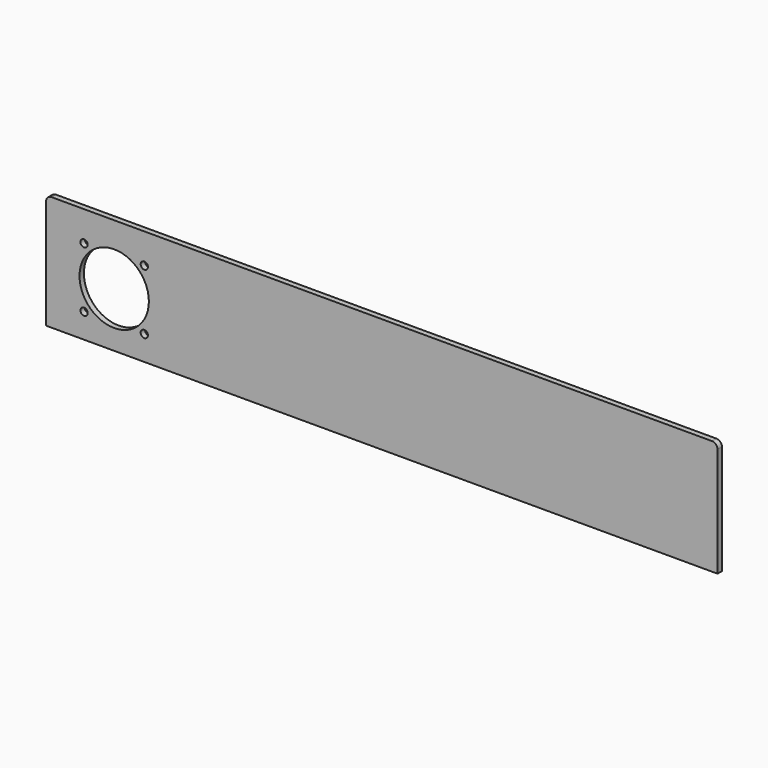
from build123d import *

# Parameters (mm, degrees)
F0_R     = 2
F0_R_2   = 19
F1_DEPTH = 3


with BuildPart() as f1:
    # F0 (on Front) → F1 (new body)
    with BuildSketch(Plane.XZ):
        with BuildLine():
            Line((176.212173, -51.451489), (-185.787827, -51.451489))
            ThreePointArc((-185.787827, -51.451489), (-187.909148, -52.330169), (-188.787827, -54.451489))
            Line((-188.787827, -54.451489), (-188.787827, -114.451489))
            Line((-188.787827, -114.451489), (179.212173, -114.451489))
            Line((179.212173, -114.451489), (179.212173, -54.451489))
            ThreePointArc((179.212173, -54.451489), (178.333493, -52.330169), (176.212173, -51.451489))
        make_face()
        with Locations((-167.960797, -100.951489)):
            Circle(F0_R, mode=Mode.SUBTRACT)
        with Locations((-134.960797, -100.951489)):
            Circle(F0_R, mode=Mode.SUBTRACT)
        with Locations((-151.460797, -84.451489)):
            Circle(F0_R_2, mode=Mode.SUBTRACT)
        with Locations((-167.960797, -67.951489)):
            Circle(F0_R, mode=Mode.SUBTRACT)
        with Locations((-134.960797, -67.951489)):
            Circle(F0_R, mode=Mode.SUBTRACT)
    extrude(amount=F1_DEPTH)


solid = f1.part
